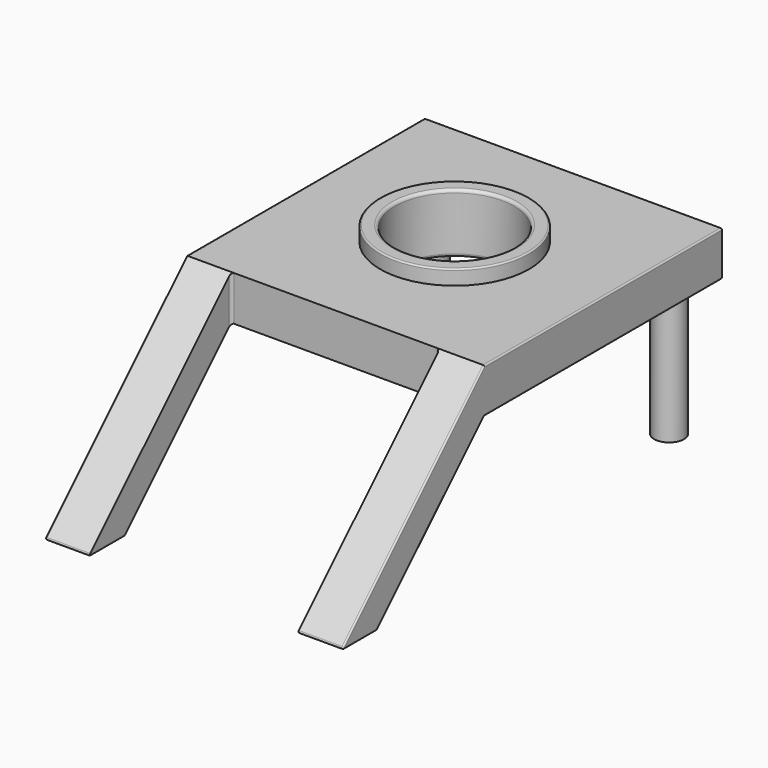
from build123d import *

# Parameters (mm, degrees)
F0_W     = 100
F0_H     = 100
F0_R     = 5
F0_R_2   = 25
F1_DEPTH = 15
F0_R_3   = 19.999999553
F2_DEPTH = 20
F3_DEPTH = 45
F5_W     = 15
F5_H     = 15
F10_R    = 1
F11_R    = 0.5


with BuildPart() as f1:
    # F0 (on Top) → F1 (new body)
    with BuildSketch(Plane.XY):
        Rectangle(F0_W, F0_H)
        with Locations((-40, 40)):
            Circle(F0_R, mode=Mode.SUBTRACT)
        Circle(F0_R_2, mode=Mode.SUBTRACT)
        with Locations((40, 40)):
            Circle(F0_R, mode=Mode.SUBTRACT)
        with Locations((40, 40)):
            Circle(F0_R)
        with Locations((-40, 40)):
            Circle(F0_R)
    extrude(amount=F1_DEPTH)

    # F0 (on Top) → F2 (join)
    with BuildSketch(Plane.XY):
        Circle(F0_R_2)
        Circle(F0_R_3, mode=Mode.SUBTRACT)
    extrude(amount=F2_DEPTH)

    # F0 (on Top) → F3 (join)
    with BuildSketch(Plane.XY):
        with Locations((-40, 40)):
            Circle(F0_R)
        with Locations((40, 40)):
            Circle(F0_R)
    extrude(amount=-F3_DEPTH)

    # F8: sweep along a path in F7
    with BuildLine(Plane.YZ.offset(50)) as f8_path:
        Line((-110, -45), (-50, 15))
    # F5 (on offset) → F8 (sweep)
    with BuildSketch(Plane.XY.offset(-45)):
        with Locations((42.5, -102.5)):
            Rectangle(F5_W, F5_H)
    sweep(path=f8_path.line)

    # F9: F1 across plane


with BuildPart() as f1_1:
    add(f1.part)
    add(f1.part.mirror(Plane.YZ))

    # F10
    f10_edges = [f1_1.edges().sort_by_distance(p)[0] for p in [
        (-35, -50, 7.5),
        (35, -50, 7.5),
        (-20, 0, 0),
        (20, 0, 10),
        (-20, 0, 20),
    ]]
    fillet(f10_edges, radius=F10_R)

    # F11
    f11_edges = [f1_1.edges().sort_by_distance(p)[0] for p in [
        (-25, 0, 20),
        (50, 0, 15),
        (0, 50, 15),
        (50, 50, 7.5),
        (-50, 50, 7.5),
        (-50, 0, 15),
        (-50, 0, 0),
        (0, 50, 0),
        (50, 0, 0),
        (50, -72.5, -22.5),
        (50, -80, -15),
        (-50, -80, -15),
        (-50, -72.5, -22.5),
        (-50, -102.5, -45),
        (-42.5, -95, -45),
        (-42.5, -110, -45),
        (35, -102.5, -45),
        (42.5, -110, -45),
        (-35, -102.5, -45),
        (50, -102.5, -45),
    ]]
    fillet(f11_edges, radius=F11_R)


solid = f1_1.part
